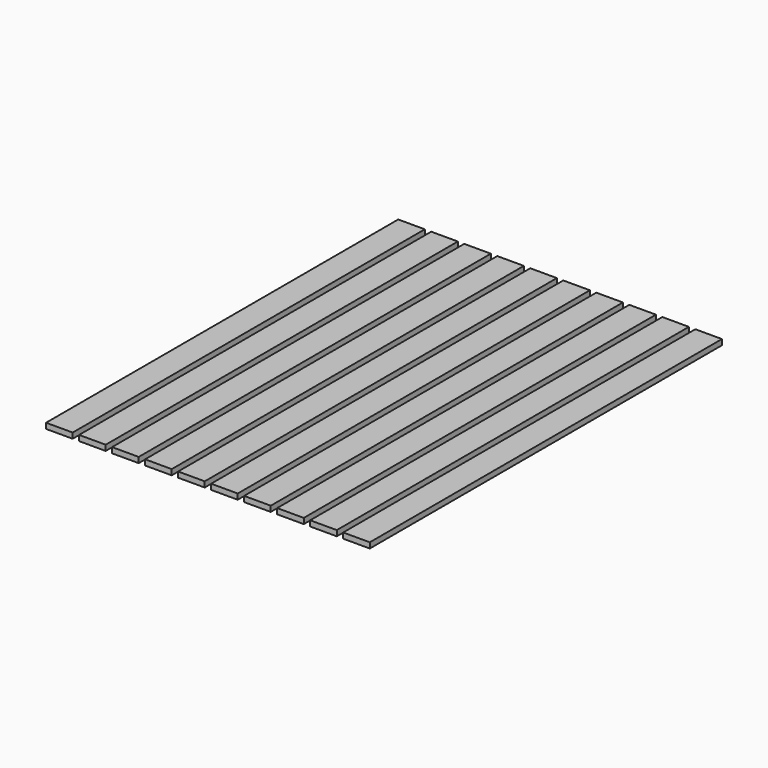
from build123d import *

# Parameters (mm, degrees)
F0_W     = 184.15
F0_H     = 38.1
F1_DEPTH = 3048


with BuildPart() as f1:
    # F0 (on Front) → F1 (new body)
    with BuildSketch(Plane.XZ):
        with Locations((228.6, 0)):
            Rectangle(F0_W, F0_H)
        with Locations((457.2, 0)):
            Rectangle(F0_W, F0_H)
        with Locations((685.8, 0)):
            Rectangle(F0_W, F0_H)
        with Locations((914.4, 0)):
            Rectangle(F0_W, F0_H)
        with Locations((1143, 0)):
            Rectangle(F0_W, F0_H)
        with Locations((1371.6, 0)):
            Rectangle(F0_W, F0_H)
        with Locations((1600.2, 0)):
            Rectangle(F0_W, F0_H)
        with Locations((1828.8, 0)):
            Rectangle(F0_W, F0_H)
        with Locations((2057.4, 0)):
            Rectangle(F0_W, F0_H)
        Rectangle(F0_W, F0_H)
    extrude(amount=F1_DEPTH)


solid = f1.part
